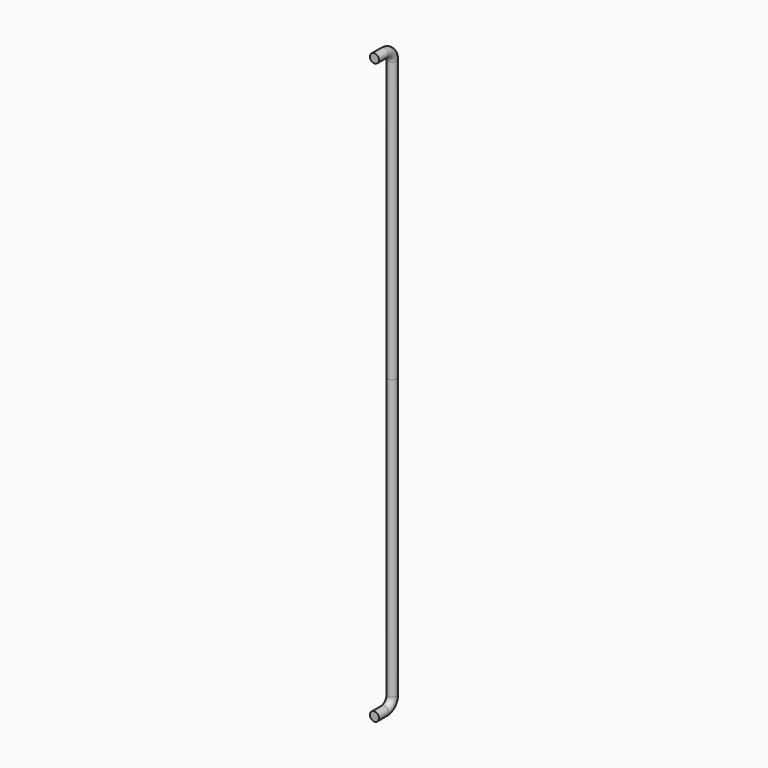
from build123d import *

# Parameters (mm, degrees)
F2_R = 9.525


with BuildPart() as f3:
    # F3: sweep along a path in F0
    with BuildLine(Plane.YZ) as f3_path:
        Line((0, 0), (0, 588.01))
        ThreePointArc((0, 588.01), (-6.3235645942, 603.2764354058), (-21.59, 609.6))
        Line((-21.59, 609.6), (-46.99, 609.6))
    # F2 (on offset) → F3 (sweep)
    with BuildSketch(Plane.XZ.offset(46.99)):
        with Locations((0, 609.6)):
            Circle(F2_R)
    sweep(path=f3_path.line)

    # F4: F3 across plane


with BuildPart() as f3_1:
    add(f3.part)
    add(f3.part.mirror(Plane.XY))


solid = f3_1.part
